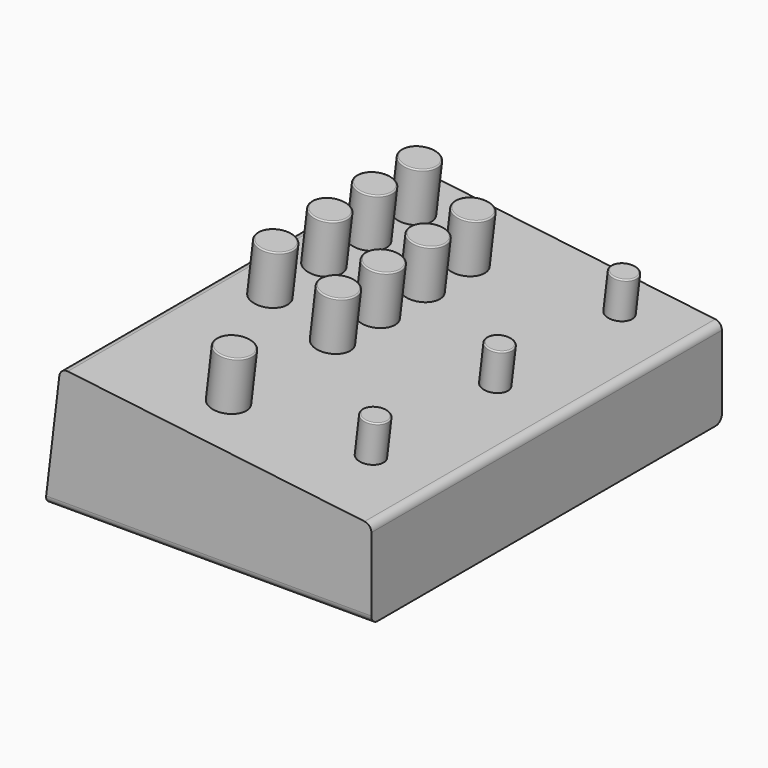
from build123d import *

# Parameters (mm, degrees)
PAD_DEPTH    = 86
FILLET_R     = 3
SKETCH001_R  = 6
PAD001_DEPTH = 3.5
CHAMFER_SIZE = 2
SKETCH002_R  = 7
PAD002_DEPTH = 20
SKETCH003_R  = 5
PAD003_DEPTH = 15
FILLET001_R  = 0.5


with BuildPart() as part:
    # Sketch → Pad (new body, symmetric)
    with BuildSketch(Plane.XZ):
        Polygon((-62.1247047366, 49.1477470281), (60, 34.5), (60, 0), (-68.0195297601, 0), align=None)
    extrude(amount=PAD_DEPTH, both=True)

    # Fillet
    fillet_edges = [part.edges().sort_by_distance(p)[0] for p in [
        (60, 0, 34.5),
        (-62.124705, 0, 49.147747),
        (-4.009765, -86, 0),
        (-4.009765, 86, 0),
    ]]
    fillet(fillet_edges, radius=FILLET_R)

    # Sketch001 (on Face10 of Fillet) → Pad001 (join)
    with BuildSketch(Plane(origin=(0, 0, 0), x_dir=(1, 0, 0), z_dir=(0, 0, -1))):
        with Locations((-58.376114, 73.22393)):
            Circle(SKETCH001_R)
        with Locations((50.799898, 73.22393)):
            Circle(SKETCH001_R)
        with Locations((-58.376114, -73.762638)):
            Circle(SKETCH001_R)
        with Locations((50.799898, -73.762638)):
            Circle(SKETCH001_R)
    extrude(amount=PAD001_DEPTH)

    # Chamfer
    chamfer_edges = [part.edges().sort_by_distance(p)[0] for p in [
        (-64.376114, -73.22393, -3.5),
        (44.799898, -73.22393, -3.5),
        (44.799898, 73.762638, -3.5),
        (-64.376114, 73.762638, -3.5),
    ]]
    chamfer(chamfer_edges, length=CHAMFER_SIZE)

    # Sketch002 (on Face19 of Chamfer) → Pad002 (join)
    with BuildSketch(Plane(origin=(4.9301854729, 0, 41.1051231306), x_dir=(-0.9928837783, 0, 0.1190873742), z_dir=(0.1190873742, 0, 0.9928837783))):
        with Locations((49.5354877096, 5.5)):
            Circle(SKETCH002_R)
        with Locations((49.5354877096, -21)):
            Circle(SKETCH002_R)
        with Locations((49.5354877096, -43)):
            Circle(SKETCH002_R)
        with Locations((49.5354877096, -65)):
            Circle(SKETCH002_R)
        with Locations((19.5354877096, 12)):
            Circle(SKETCH002_R)
        with Locations((19.5354877096, -10)):
            Circle(SKETCH002_R)
        with Locations((19.5354877096, -32)):
            Circle(SKETCH002_R)
        with Locations((19.5354877096, -54)):
            Circle(SKETCH002_R)
        with Locations((19.5354877096, 63)):
            Circle(SKETCH002_R)
    extrude(amount=PAD002_DEPTH)

    # Sketch003 → Pad003 (join)
    with BuildSketch(Plane(origin=(4.9301854729, 0, 41.1051231306), x_dir=(-0.9928837783, 0, 0.1190873742), z_dir=(0.1190873742, 0, 0.9928837783))):
        with Locations((-30.3028333155, 55)):
            Circle(SKETCH003_R)
        with Locations((-30.3028333155, -6)):
            Circle(SKETCH003_R)
        with Locations((-30.3028333155, -67)):
            Circle(SKETCH003_R)
    extrude(amount=PAD003_DEPTH)

    # Fillet001
    fillet001_edges = [part.edges().sort_by_distance(p)[0] for p in [
        (-5.134349, -12, 62.455617),
        (-5.134349, -63, 62.455617),
        (-34.920863, -5.5, 66.028238),
        (-34.920863, 21, 66.028238),
        (-34.920863, 43, 66.028238),
        (-34.920863, 65, 66.028238),
        (-5.134349, 54, 62.455617),
        (-5.134349, 32, 62.455617),
        (-5.134349, 10, 62.455617),
        (41.768107, -55, 51.794258),
        (41.768107, 6, 51.794258),
        (41.768107, 67, 51.794258),
    ]]
    fillet(fillet001_edges, radius=FILLET001_R)


solid = part.part
